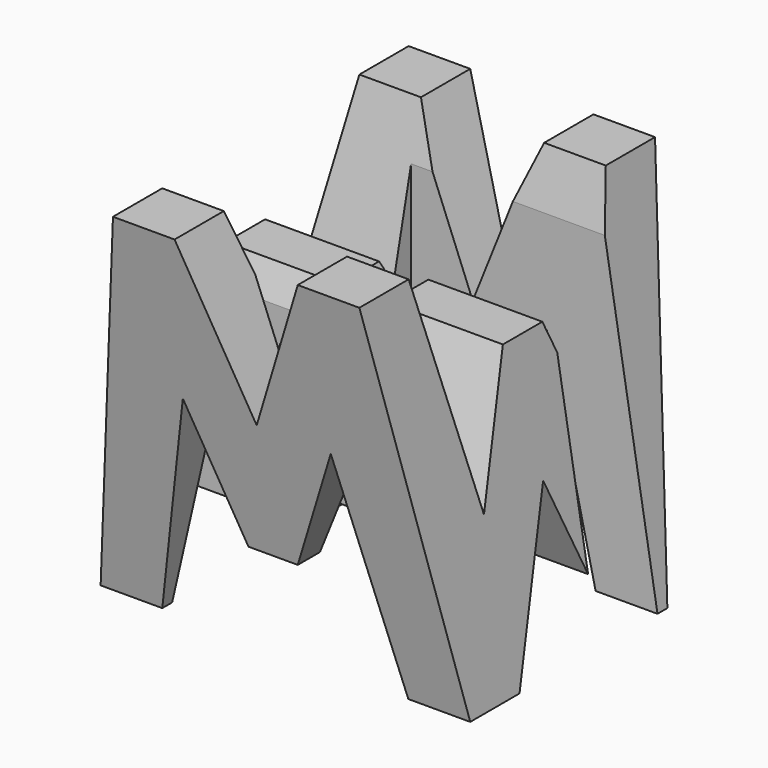
from build123d import *

# Parameters (mm, degrees)
F0_W      = 38.1
F0_H      = 38.1
F1_DEPTH  = 38.1
F6_DEPTH  = 76.2
F8_DEPTH  = 38.1
F9_W      = 25.4
F9_H      = 7.62
F10_DEPTH = 38.1


with BuildPart() as f1:
    # F0 (on Front) → F1 (new body)
    with BuildSketch(Plane.XZ):
        with Locations((-19.05, 19.05)):
            Rectangle(F0_W, F0_H)
    extrude(amount=F1_DEPTH)

    # F5 (on offset) → F6 (cut)
    with BuildSketch(Plane.YZ.offset(38.1)):
        Polygon((-31.75, 0), (-38.1, 38.1), (-38.1, 0), align=None)
        Polygon((-11.43, 16.014082), (-6.35, 38.1), (-31.75, 38.1), (-26.67, 15.896983), (-21.59, 28.575), (-16.51, 28.575), align=None)
        Polygon((-25.4, 0), (-12.7, 0), (-19.05, 15.875), align=None)
        Polygon((-6.35, 0), (0, 0), (0, 38.1), align=None)
    extrude(amount=-F6_DEPTH, mode=Mode.SUBTRACT)

    # F7 (on offset) → F8 (cut)
    with BuildSketch(Plane.XZ.offset(38.1)):
        Polygon((-31.75, 38.1), (-38.1, 38.1), (-38.1, 0), align=None)
        Polygon((-12.7, 38.1), (-25.4, 38.1), (-19.05, 22.225), align=None)
        Polygon((0, 38.1), (-6.35, 38.1), (0, 0), align=None)
        Polygon((-26.67, 22.177041), (-31.75, -0.026754), (-6.350338, -0.133766), (-11.430338, 22.112834), (-16.510338, 9.525), (-21.590338, 9.525), align=None)
    extrude(amount=-F8_DEPTH, mode=Mode.SUBTRACT)

    # F9 (on offset) → F10 (cut)
    with BuildSketch(Plane.XY.offset(38.1)):
        with Locations((-12.7, -11.43)):
            Rectangle(F9_W, F9_H)
        with Locations((-25.4, -26.67)):
            Rectangle(F9_W, F9_H)
    extrude(amount=-F10_DEPTH, mode=Mode.SUBTRACT)


solid = f1.part
